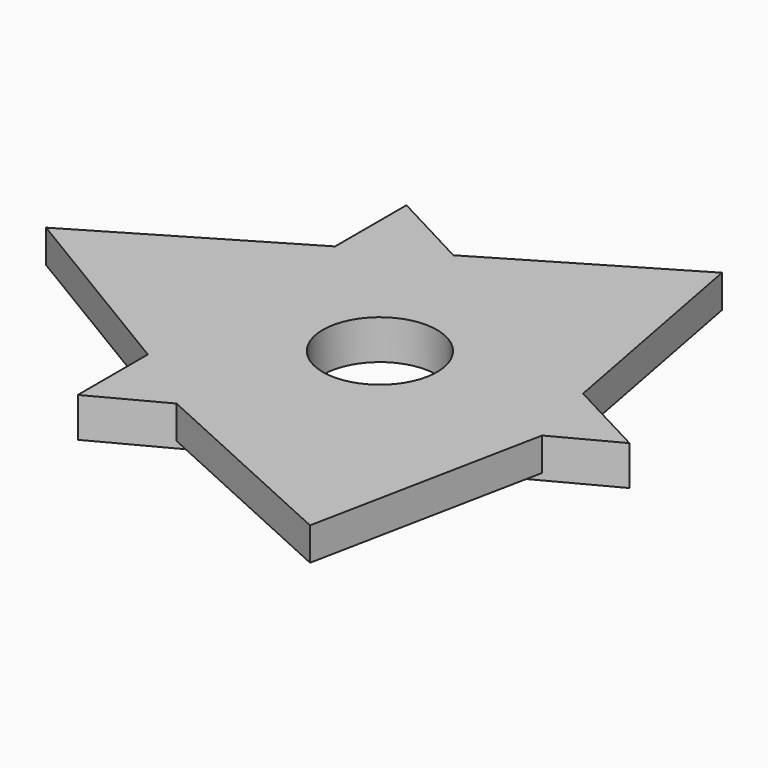
from build123d import *

# Parameters (mm, degrees)
F1_DEPTH = 6.5933763981
F3_D     = 19.05
F5_DEPTH = 5.4949615151


with BuildPart() as f1:
    # F0 (on Top) → F1 (new body)
    with BuildSketch(Plane.XY):
        Polygon((-64.5944178104, 68.5121715069), (-64.5944178104, 0), (0, 34.2560857534), align=None)
    extrude(amount=F1_DEPTH)

    # F3 (through all)
    with Locations(Plane.XY.offset(6.5933763981)):
        with Locations((-41.6155830026, 34.2560857534)):
            Hole(F3_D / 2)

    # F4 (on face) → F5 (join)
    with BuildSketch(Plane.XY.offset(6.5933763981)):
        Polygon((-97.2867310047, 34.2560857534), (-64.5944178104, 14.6030057222), (-64.5944178104, 34.2560857534), (-64.5944178104, 53.6291189492), align=None)
        Polygon((-32.2972089052, 17.1280428767), (-53.0271635681, 6.1344132618), (-17.9972769314, -9.8363857863), align=None)
        Polygon((-10.2336501417, 28.8289171419), (-32.2972089052, 17.1280428767), (-17.9972769314, -9.8363857863), align=None)
        Polygon((-20.6264760453, 79.3094929525), (-51.0069840933, 61.306404966), (-32.2972089052, 51.3841286302), (-13.4495195214, 41.3887128393), align=None)
    extrude(amount=-F5_DEPTH)


solid = f1.part
